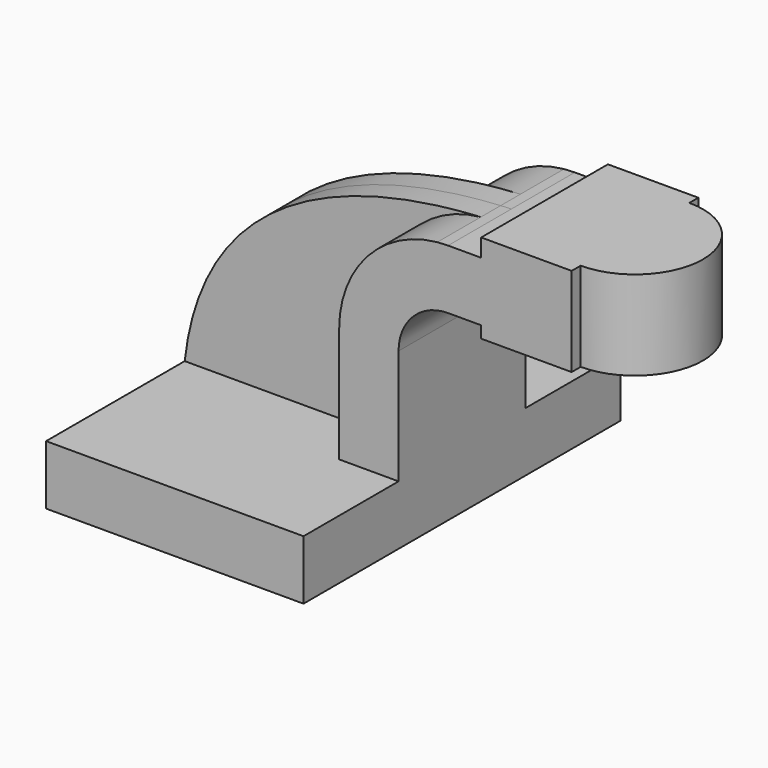
from build123d import *

# Parameters (mm, degrees)
F1_DEPTH = 63.5
F2_DEPTH = 25.4
F3_DEPTH = 7.9375
F0_W     = 21.7925966091
F0_H     = 28.575


with BuildPart() as f1:
    # F0 (on Front) → F1 (new body, symmetric)
    with BuildSketch(Plane.XZ):
        Polygon((31.6835418344, -20.7545107607), (-31.8164581656, -20.7545107607), (-31.8164581656, -39.8045107607), (50.7335418344, -39.8045107607), (50.7335418344, -20.7545107607), align=None)
    extrude(amount=F1_DEPTH, both=True)

    # F0 (on Front) → F2 (join, symmetric)
    with BuildSketch(Plane.XZ):
        with BuildLine():
            Line((31.6835418344, 16.0500892393), (31.6835418344, -20.7545107607))
            Line((31.6835418344, -20.7545107607), (50.7335418344, -20.7545107607))
            Line((50.7335418344, -20.7545107607), (50.7335418344, 16.0500892393))
            ThreePointArc((50.7335418344, 16.0500892393), (55.383221683, 27.2754093906), (66.6085418344, 31.9250892393))
            Line((66.6085418344, 31.9250892393), (77.2256346173, 31.9250892393))
            Line((77.2256346173, 31.9250892393), (77.2256346173, 50.9750892393))
            Line((77.2256346173, 50.9750892393), (66.6085418344, 50.9750892393))
            add(Edge.make_bspline(
                [(63.1497321777, 50.8033949922), (64.2990860037, 50.8698615177), (65.4521577964, 50.9270251755), (66.6085418344, 50.9750892393)],
                knots=[118.9365229564, 118.9365229564, 118.9365229564, 118.9365229564, 121.7892283462, 121.7892283462, 121.7892283462, 121.7892283462], degree=3))
            ThreePointArc((63.1497321777, 50.8033949922), (40.7188281216, 39.4910437606), (31.6835418344, 16.0500892393))
        make_face()
        Polygon((77.2256346173, 56.7154892393), (77.2256346173, 50.9750892393), (77.2256346173, 31.9250892393), (77.2256346173, 28.1404892393), (106.2330380082, 28.1404892393), (106.2330380082, 56.7154892393), align=None)
    extrude(amount=F2_DEPTH, both=True)

    # F0 (on Front) → F3 (join, symmetric)
    with BuildSketch(Plane.XZ):
        with BuildLine():
            add(Edge.make_bspline(
                [(-31.8164581656, -20.7545107607), (-26.2263988588, 29.0902056228), (15.2302560918, 48.0322369679), (63.1497321777, 50.8033949922)],
                knots=[0, 0, 0, 0, 118.9365229564, 118.9365229564, 118.9365229564, 118.9365229564], degree=3))
            Line((-31.8164581656, -20.7545107607), (31.6835418344, -20.7545107607))
            Line((31.6835418344, -20.7545107607), (31.6835418344, 16.0500892393))
            ThreePointArc((31.6835418344, 16.0500892393), (40.7188281216, 39.4910437606), (63.1497321777, 50.8033949922))
        make_face()
    extrude(amount=F3_DEPTH, both=True)

    # F0 (on Front) → F4 (revolve)
    with BuildSketch(Plane.XZ):
        with Locations((117.1293363128, 42.4279892393)):
            Rectangle(F0_W, F0_H)
    revolve(axis=Axis((106.2330380082, 0, 42.4279892393), (0, 0, -1)))


solid = f1.part
